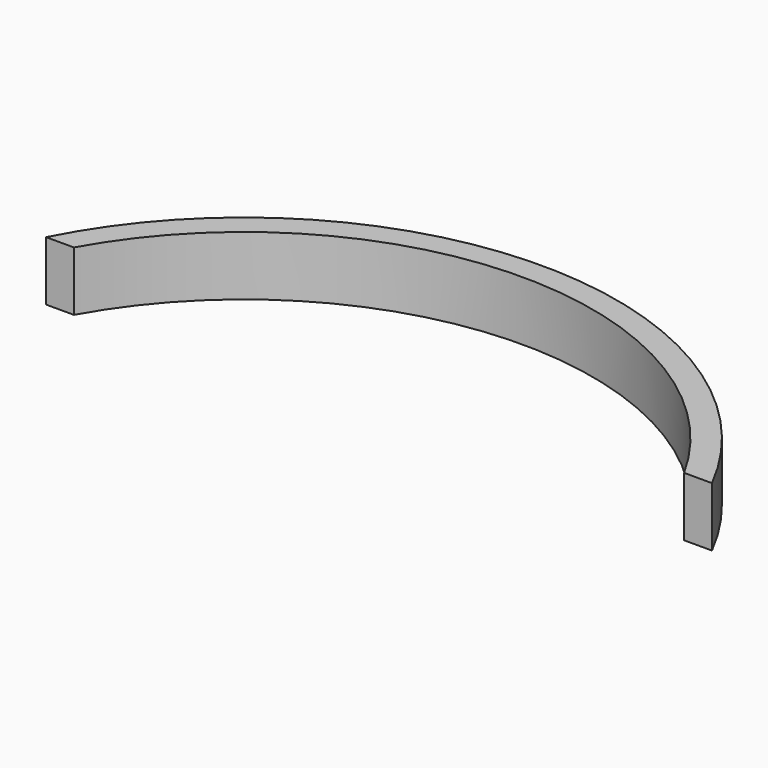
from build123d import *

# Parameters (mm, degrees)
F1_DEPTH = 7.366


with BuildPart() as f1:
    # F0 (on Top) → F1 (new body)
    with BuildSketch(Plane.XY):
        with BuildLine():
            ThreePointArc((-58.92507, 0), (-21.077679, 22.294755), (16.769711, 0))
            Line((16.769711, 0), (20.220044, 0))
            ThreePointArc((20.220044, 0), (-21.077679, 25.342755), (-62.375402, 0))
            Line((-62.375402, 0), (-58.92507, 0))
        make_face()
        with BuildLine():
            ThreePointArc((-58.92507, 0), (-21.077679, 22.294755), (16.769711, 0))
            Line((16.769711, 0), (20.220044, 0))
            ThreePointArc((20.220044, 0), (-21.077679, 25.342755), (-62.375402, 0))
            Line((-62.375402, 0), (-58.92507, 0))
        make_face()
        with BuildLine():
            ThreePointArc((-58.92507, 0), (-21.077679, 22.294755), (16.769711, 0))
            Line((16.769711, 0), (20.220044, 0))
            ThreePointArc((20.220044, 0), (-21.077679, 25.342755), (-62.375402, 0))
            Line((-62.375402, 0), (-58.92507, 0))
        make_face()
    extrude(amount=F1_DEPTH)


solid = f1.part
